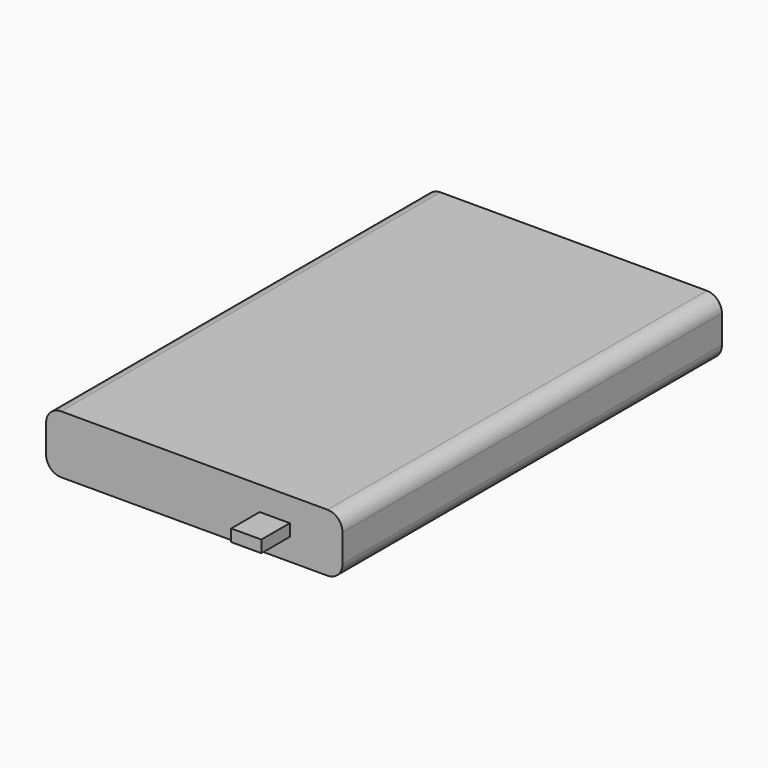
from build123d import *

# Parameters (mm, degrees)
F0_W     = 25
F0_H     = 40
F1_DEPTH = 4.9
F2_R     = 1.27
F3_W     = 2.54
F3_H     = 1.016
F4_DEPTH = 3


with BuildPart() as f1:
    # F0 (on Top) → F1 (new body)
    with BuildSketch(Plane.XY):
        Rectangle(F0_W, F0_H)
    extrude(amount=F1_DEPTH)

    # F2
    f2_edges = [f1.edges().sort_by_distance(p)[0] for p in [
        (-12.5, 0, 4.9),
        (12.5, 0, 4.9),
        (12.5, 0, 0),
        (-12.5, 0, 0),
    ]]
    fillet(f2_edges, radius=F2_R)

    # F3 (on face) → F4 (join)
    with BuildSketch(Plane.XZ.offset(20)):
        with Locations((6.785, 2.36)):
            Rectangle(F3_W, F3_H)
    extrude(amount=F4_DEPTH)


solid = f1.part
